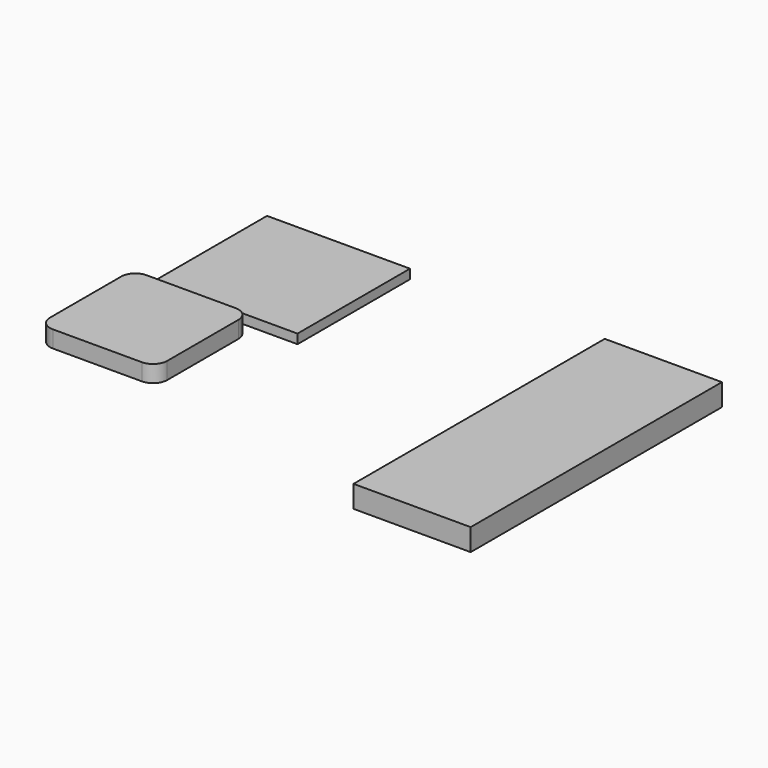
from build123d import *

# Parameters (mm, degrees)
F0_W     = 2500
F0_H     = 6700
F1_DEPTH = 470
F2_W     = 3050
F2_H     = 3000
F3_DEPTH = 200
F5_DEPTH = 360


with BuildPart() as f1:
    # F0 (on Top) → F1 (new body)
    with BuildSketch(Plane.XY):
        Rectangle(F0_W, F0_H)
    extrude(amount=F1_DEPTH)


with BuildPart() as f3:
    # F2 (on face) → F3 (new body)
    with BuildSketch(Plane.XY.offset(470)):
        with Locations((-6650.174713, 1500)):
            Rectangle(F2_W, F2_H)
    extrude(amount=F3_DEPTH)


with BuildPart() as f5:
    # F4 (on face) → F5 (new body)
    with BuildSketch(Plane.XY.offset(670)):
        with BuildLine():
            Line((-7972.353649, -2965.872793), (-6072.353649, -2965.872793))
            ThreePointArc((-6072.353649, -2965.872793), (-5860.221615, -2878.004828), (-5772.353649, -2665.872793))
            Line((-5772.353649, -2665.872793), (-5772.353649, -765.872793))
            ThreePointArc((-5772.353649, -765.872793), (-5860.221615, -553.740759), (-6072.353649, -465.872793))
            Line((-6072.353649, -465.872793), (-7972.353649, -465.872793))
            ThreePointArc((-7972.353649, -465.872793), (-8184.485683, -553.740759), (-8272.353649, -765.872793))
            Line((-8272.353649, -765.872793), (-8272.353649, -2665.872793))
            ThreePointArc((-8272.353649, -2665.872793), (-8184.485683, -2878.004828), (-7972.353649, -2965.872793))
        make_face()
    extrude(amount=F5_DEPTH)


solid = Compound([f1.part, f3.part, f5.part])
